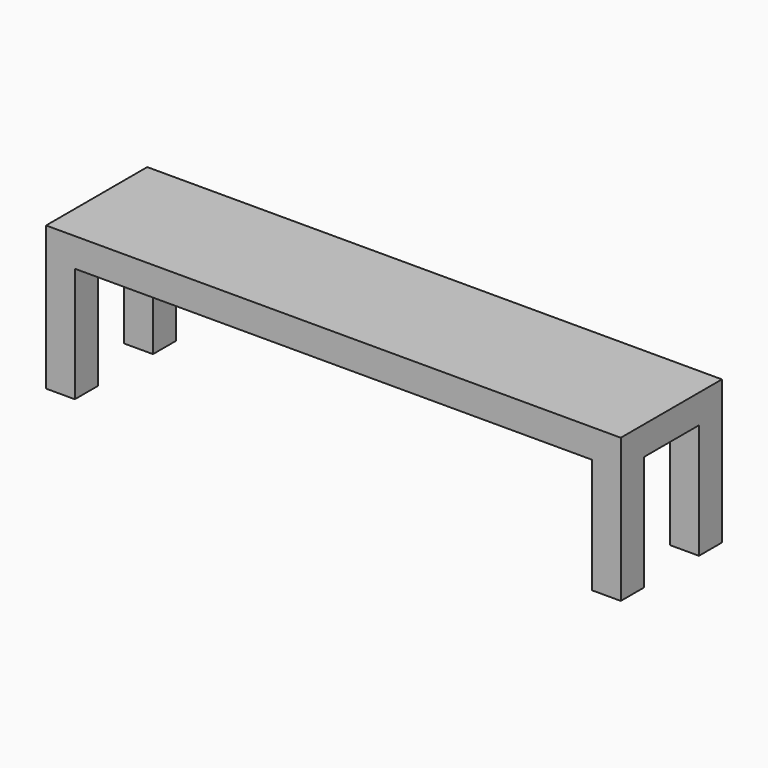
from build123d import *

# Parameters (mm, degrees)
F0_W     = 254
F0_H     = 55.88
F1_DEPTH = 63.5
F2_W     = 228.6
F2_H     = 50.8
F3_DEPTH = 55.881
F4_W     = 30.48
F4_H     = 50.8
F5_DEPTH = 254.001


with BuildPart() as f1:
    # F0 (on Top) → F1 (new body)
    with BuildSketch(Plane.XY):
        with Locations((-108.656693, 13.099435)):
            Rectangle(F0_W, F0_H)
    extrude(amount=F1_DEPTH)

    # F2 (on face) → F3 (cut, through all)
    with BuildSketch(Plane.XZ.offset(14.840565)):
        with Locations((-108.656693, 25.4)):
            Rectangle(F2_W, F2_H)
    extrude(amount=-F3_DEPTH, mode=Mode.SUBTRACT)

    # F4 (on face) → F5 (cut, through all)
    with BuildSketch(Plane(origin=(-235.656693, 0, 0), x_dir=(0, -1, 0), z_dir=(-1, 0, 0))):
        with Locations((-13.099435, 25.4)):
            Rectangle(F4_W, F4_H)
    extrude(amount=-F5_DEPTH, mode=Mode.SUBTRACT)


solid = f1.part
